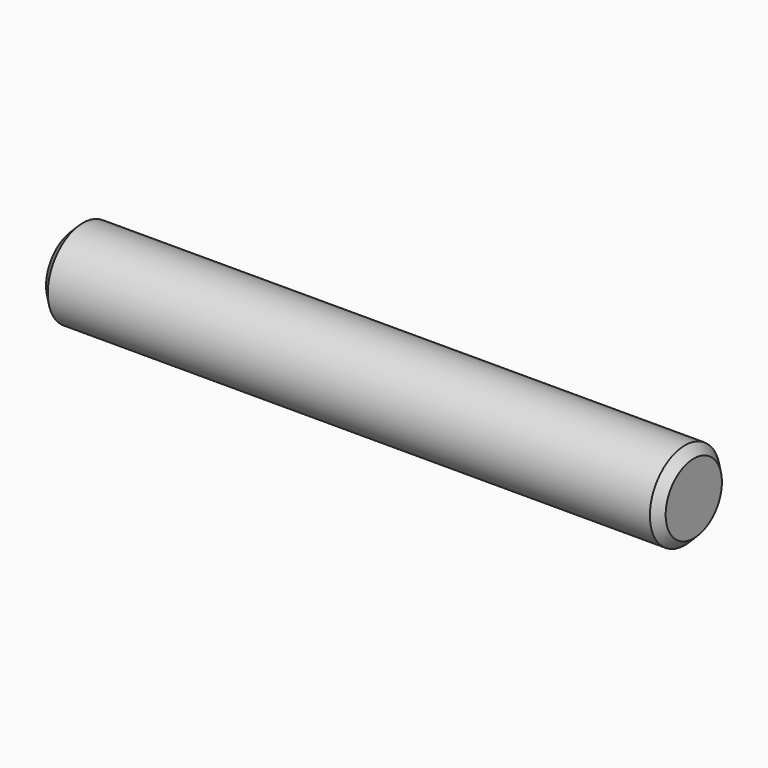
from build123d import *

# Parameters (mm, degrees)
F0_R     = 6.35
F1_DEPTH = 89.535
F2_SIZE  = 1.27


with BuildPart() as f1:
    # F0 (on Right) → F1 (new body)
    with BuildSketch(Plane.YZ):
        Circle(F0_R)
    extrude(amount=F1_DEPTH)

    # F2
    f2_edges = [f1.edges().sort_by_distance(p)[0] for p in [
        (44.7675, 6.35, 0),
        (0, -6.35, 0),
        (89.535, -6.35, 0),
    ]]
    chamfer(f2_edges, length=F2_SIZE)


solid = f1.part
